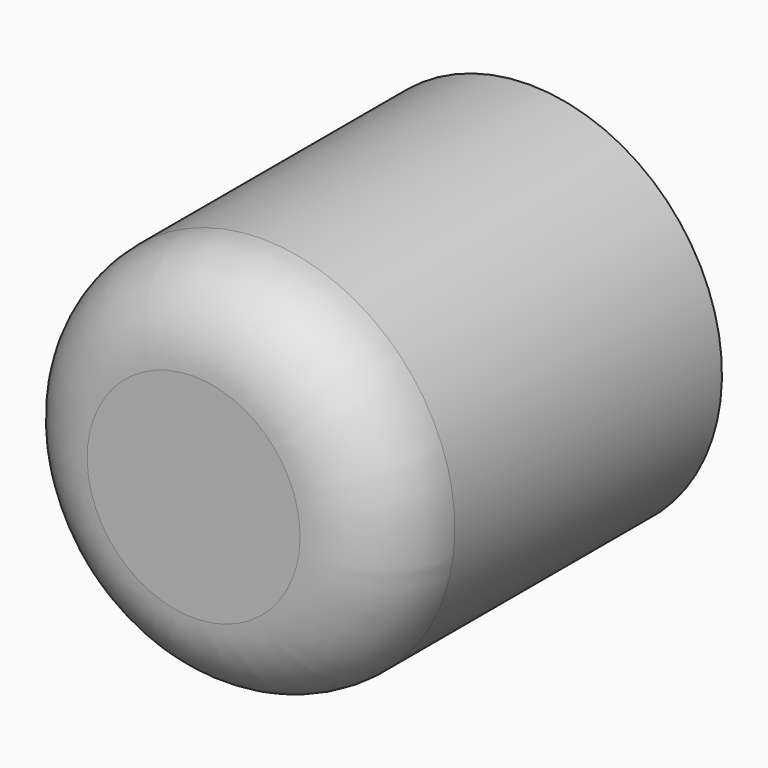
from build123d import *

# Parameters (mm, degrees)
F0_W = 99.274278
F0_H = 45.48195
F2_R = 20.32
F3_T = -2.54


with BuildPart() as f1:
    # F0 (on Right) → F1 (revolve)
    with BuildSketch(Plane.YZ):
        with Locations((49.637139, 22.740975)):
            Rectangle(F0_W, F0_H)
    revolve(axis=Axis((0, 49.637139, 0), (0, 1, 0)))

    # F2
    f2_edges = [f1.edges().sort_by_distance(p)[0] for p in [
        (0, 0, -45.48195),
    ]]
    fillet(f2_edges, radius=F2_R)

    # F3
    f3_openings = [f1.faces().sort_by_distance(p)[0] for p in [
        (0, 99.274278, 0),
    ]]
    offset(amount=F3_T, openings=f3_openings)


solid = f1.part
